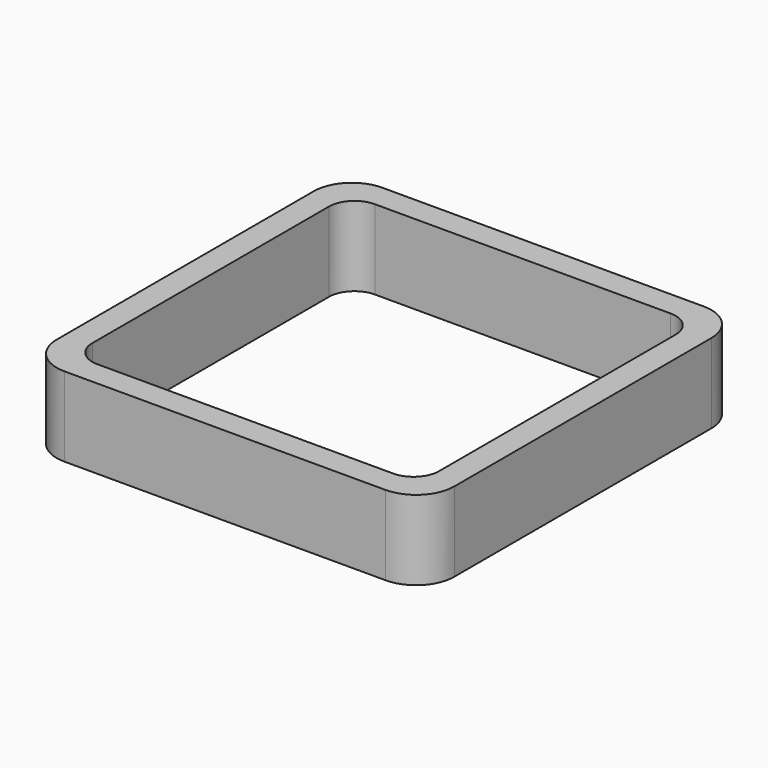
from build123d import *

# Parameters (mm, degrees)
EXTRUDE_DEPTH = 50


with BuildPart() as part:
    # Sketch → Extrude (new body)
    with BuildSketch(Plane.XY):
        with BuildLine():
            Line((-101, 125), (101, 125))
            ThreePointArc((125, 101), (117.970563, 117.970563), (101, 125))
            Line((125, 101), (125, -101))
            ThreePointArc((101, -125), (117.970563, -117.970563), (125, -101))
            Line((101, -125), (-101, -125))
            ThreePointArc((-125, -101), (-117.970563, -117.970563), (-101, -125))
            Line((-125, -101), (-125, 101))
            ThreePointArc((-101, 125), (-117.970563, 117.970563), (-125, 101))
        make_face()
        with BuildLine():
            Line((-93, 109), (93, 109))
            ThreePointArc((109, 93), (104.313708, 104.313708), (93, 109))
            Line((109, 93), (109, -93))
            ThreePointArc((93, -109), (104.313708, -104.313708), (109, -93))
            Line((93, -109), (-93, -109))
            ThreePointArc((-109, -93), (-104.313708, -104.313708), (-93, -109))
            Line((-109, -93), (-109, 93))
            ThreePointArc((-93, 109), (-104.313708, 104.313708), (-109, 93))
        make_face(mode=Mode.SUBTRACT)
    extrude(amount=EXTRUDE_DEPTH)


solid = part.part
